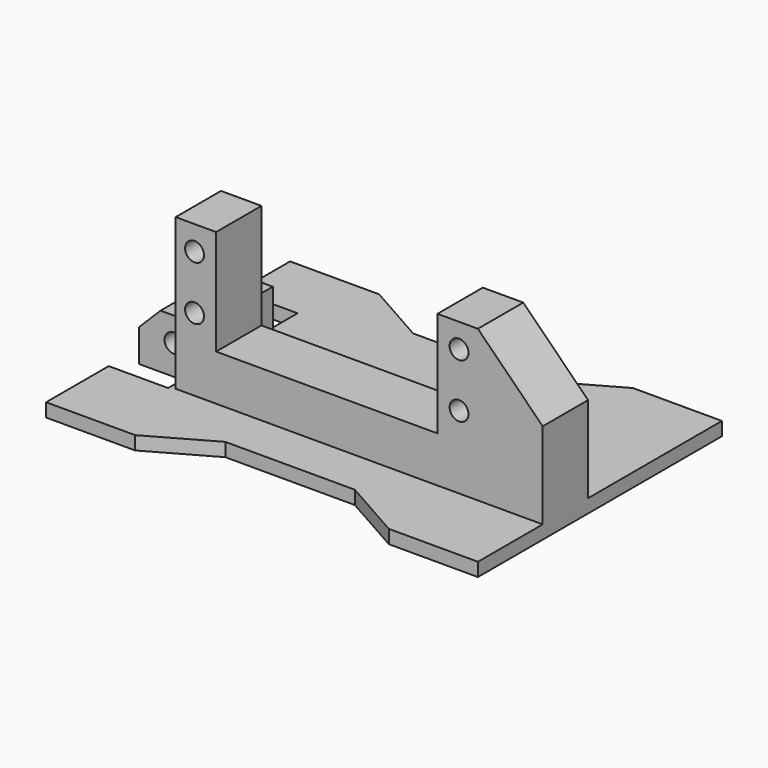
from build123d import *

# Parameters (mm, degrees)
CYLINDER016_R             = 1.75
CYLINDER016_DEPTH         = 70
CYLINDER016_ROLL_ANGLE    = -90
CYLINDER026_R             = 1.75
CYLINDER026_DEPTH         = 24.5
CYLINDER026_PITCH_ANGLE   = 90
CYLINDER027_R             = 3
CYLINDER027_DEPTH         = 21.5
CYLINDER027_PITCH_ANGLE   = 90
FUSION007_PITCH_ANGLE     = -90
FUSION007_PLACEMENT_ANGLE = -180
FUSION008_PITCH_ANGLE     = -90
FUSION008_PLACEMENT_ANGLE = -180
FUSION005_PITCH_ANGLE     = -90
FUSION005_PLACEMENT_ANGLE = -180
FUSION006_PITCH_ANGLE     = -90
FUSION006_PLACEMENT_ANGLE = -180
BOX021_W                  = 37
BOX021_H                  = 41
BOX021_DEPTH              = 25
BOX021_PITCH_ANGLE        = -90
BOX021_PLACEMENT_ANGLE    = -180
FUSION012_PITCH_ANGLE     = -90
FUSION012_PLACEMENT_ANGLE = -90
BOX007_W                  = 68
BOX007_H                  = 10.5
BOX007_DEPTH              = 29
CHAMFER_SIZE              = 12
BOX057_W                  = 12
BOX057_H                  = 16
BOX057_DEPTH              = 10
PAD005_DEPTH              = 2.5
CHAMFER009_SIZE           = 4


with BuildPart() as cylinder016:
    # Cylinder016 → Cylinder016 (new body)
    with BuildSketch(Plane.XY):
        Circle(CYLINDER016_R)
    extrude(amount=CYLINDER016_DEPTH)


with BuildPart() as cylinder016_1:
    # Cylinder016 roll: moved
    add(cylinder016.part.rotate(Axis((0, 0, 0), (1, 0, 0)), CYLINDER016_ROLL_ANGLE))


with BuildPart() as cylinder016_2:
    # Cylinder016 placement: moved
    add(cylinder016_1.part.moved(Location((-40.5, -5, -149.5))))


with BuildPart() as joint_d010:
    # Cylinder026 → Cylinder026 (new body)
    with BuildSketch(Plane.XY):
        Circle(CYLINDER026_R)
    extrude(amount=CYLINDER026_DEPTH)


with BuildPart() as joint_d010_1:
    # Cylinder026 pitch: moved
    add(joint_d010.part.rotate(Axis((0, 0, 0), (0, 1, 0)), CYLINDER026_PITCH_ANGLE))


with BuildPart() as joint_d010_2:
    # Cylinder026 placement: moved
    add(joint_d010_1.part.moved(Location((16, -24.5, 7))))


with BuildPart() as joint_d011:
    # Cylinder027 → Cylinder027 (new body)
    with BuildSketch(Plane.XY):
        Circle(CYLINDER027_R)
    extrude(amount=CYLINDER027_DEPTH)


with BuildPart() as joint_d011_1:
    # Cylinder027 pitch: moved
    add(joint_d011.part.rotate(Axis((0, 0, 0), (0, 1, 0)), CYLINDER027_PITCH_ANGLE))


with BuildPart() as joint_d011_2:
    # Cylinder027 placement: moved
    add(joint_d011_1.part.moved(Location((37, -24.5, 7))))


with BuildPart() as fusion007:
    # Fusion007 base: copy of Joint-D011
    add(joint_d011_2.part)

    # Fusion007: union Joint-D010
    add(joint_d010_2.part)


with BuildPart() as fusion007_1:
    # Fusion007 pitch: moved
    add(fusion007.part.rotate(Axis((0, 0, 0), (0, 1, 0)), FUSION007_PITCH_ANGLE))


with BuildPart() as fusion007_2:
    # Fusion007 placement: moved
    add(fusion007_1.part.moved(Location((-12, -39.5, 0))).rotate(Axis((-12, -39.5, 0), (0, 0, 1)), FUSION007_PLACEMENT_ANGLE))


with BuildPart() as fusion008:
    # Fusion008 base: copy of Joint-D011
    add(joint_d011_2.part)

    # Fusion008: union Joint-D010
    add(joint_d010_2.part)


with BuildPart() as fusion008_1:
    # Fusion008 pitch: moved
    add(fusion008.part.rotate(Axis((0, 0, 0), (0, 1, 0)), FUSION008_PITCH_ANGLE))


with BuildPart() as fusion008_2:
    # Fusion008 placement: moved
    add(fusion008_1.part.moved(Location((-2, -39.5, 0))).rotate(Axis((-2, -39.5, 0), (0, 0, 1)), FUSION008_PLACEMENT_ANGLE))


with BuildPart() as fusion005:
    # Fusion005 base: copy of Joint-D011
    add(joint_d011_2.part)

    # Fusion005: union Joint-D010
    add(joint_d010_2.part)


with BuildPart() as fusion005_1:
    # Fusion005 pitch: moved
    add(fusion005.part.rotate(Axis((0, 0, 0), (0, 1, 0)), FUSION005_PITCH_ANGLE))


with BuildPart() as fusion005_2:
    # Fusion005 placement: moved
    add(fusion005_1.part.moved(Location((-12, 9.5, 0))).rotate(Axis((-12, 9.5, 0), (0, 0, 1)), FUSION005_PLACEMENT_ANGLE))


with BuildPart() as fusion006:
    # Fusion006 base: copy of Joint-D011
    add(joint_d011_2.part)

    # Fusion006: union Joint-D010
    add(joint_d010_2.part)


with BuildPart() as fusion006_1:
    # Fusion006 pitch: moved
    add(fusion006.part.rotate(Axis((0, 0, 0), (0, 1, 0)), FUSION006_PITCH_ANGLE))


with BuildPart() as fusion006_2:
    # Fusion006 placement: moved
    add(fusion006_1.part.moved(Location((-2, 9.5, 0))).rotate(Axis((-2, 9.5, 0), (0, 0, 1)), FUSION006_PLACEMENT_ANGLE))


with BuildPart() as fusion012:
    # Box021 → Box021 (new body)
    with BuildSketch(Plane.XY):
        with Locations((18.5, 20.5)):
            Rectangle(BOX021_W, BOX021_H)
    extrude(amount=BOX021_DEPTH)


with BuildPart() as fusion012_1:
    # Box021 pitch: moved
    add(fusion012.part.rotate(Axis((0, 0, 0), (0, 1, 0)), BOX021_PITCH_ANGLE))


with BuildPart() as fusion012_2:
    # Box021 placement: moved
    add(fusion012_1.part.moved(Location((-10, 30, -1))).rotate(Axis((-10, 30, -1), (0, 0, 1)), BOX021_PLACEMENT_ANGLE))

    # Fusion012: union Fusion007, Fusion008, Fusion005, Fusion006
    add(fusion007_2.part)
    add(fusion008_2.part)
    add(fusion005_2.part)
    add(fusion006_2.part)


with BuildPart() as fusion012_3:
    # Fusion012 pitch: moved
    add(fusion012_2.part.rotate(Axis((0, 0, 0), (0, 1, 0)), FUSION012_PITCH_ANGLE))


with BuildPart() as fusion012_4:
    # Fusion012 placement: moved
    add(fusion012_3.part.moved(Location((-16.5, -5, -134))).rotate(Axis((-16.5, -5, -134), (0, 0, 1)), FUSION012_PLACEMENT_ANGLE))


with BuildPart() as chamfer_body:
    # Box007 → Box007 (new body)
    with BuildSketch(Plane(origin=(-35, 18, -153.5), x_dir=(1, 0, 0), z_dir=(0, 0, 1))):
        with Locations((34, 5.25)):
            Rectangle(BOX007_W, BOX007_H)
    extrude(amount=BOX007_DEPTH)

    # Chamfer
    chamfer_edges = [chamfer_body.edges().sort_by_distance(p)[0] for p in [
        (33, 23.25, -124.5),
    ]]
    chamfer(chamfer_edges, length=CHAMFER_SIZE)


with BuildPart() as cube060:
    # Box057 → Box057 (new body)
    with BuildSketch(Plane(origin=(-47, 24.5, -155), x_dir=(1, 0, 0), z_dir=(0, 0, 1))):
        with Locations((6, 8)):
            Rectangle(BOX057_W, BOX057_H)
    extrude(amount=BOX057_DEPTH)


with BuildPart() as clone_of_chamfer009:
    # Sketch007 → Pad005 (new body)
    with BuildSketch(Plane(origin=(0, 0, -155), x_dir=(1, 0, 0), z_dir=(0, 0, -1))):
        Polygon((-47, -17.5), (-47, -3), (-30.5, -3), (-19, -9.5), (5, -9.5), (16.5, -3), (33, -3), (33, -59.5), (16.5, -59.5), (5, -53), (-19, -53), (-30.5, -59.5), (-47, -59.5), (-47, -47.5), (-36, -47.5), (-36, -17.5), align=None)
    extrude(amount=-PAD005_DEPTH)

    # Fusion: union Chamfer body, Cube060
    add(chamfer_body.part)
    add(cube060.part)

    # Cut083: cut Fusion012
    add(fusion012_4.part, mode=Mode.SUBTRACT)

    # Cut084: cut Cylinder016
    add(cylinder016_2.part, mode=Mode.SUBTRACT)

    # Chamfer009
    chamfer009_edges = [clone_of_chamfer009.edges().sort_by_distance(p)[0] for p in [
        (-47, 32.5, -145),
    ]]
    chamfer(chamfer009_edges, length=CHAMFER009_SIZE)


with BuildPart() as clone_of_chamfer009_1:
    # Chamfer009 placement: moved
    add(clone_of_chamfer009.part.moved(Location((0, 0, 94))))


with BuildPart() as clone_of_chamfer009_2:
    # Clone015 placement: moved
    add(clone_of_chamfer009_1.part.moved(Location((0, 0, -70.710678))))


solid = clone_of_chamfer009_2.part
